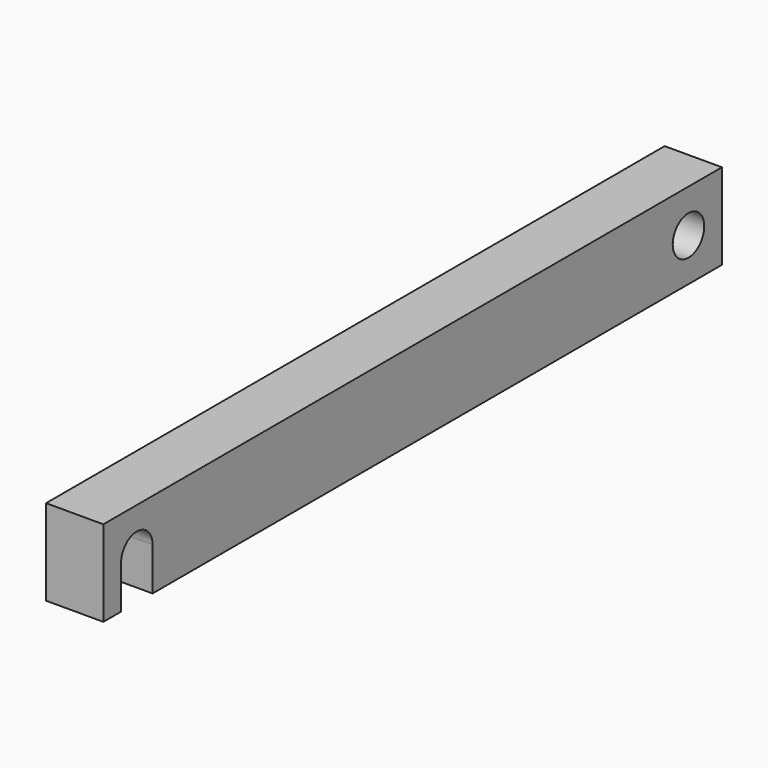
from build123d import *

# Parameters (mm, degrees)
F0_W          = 25.4
F0_H          = 38.1
F1_DEPTH      = 171.45
F1_DEPTH_BACK = 171.45
F3_D          = 17.4625
F5_DEPTH      = 25.4


with BuildPart() as f1:
    # F0 (on Front) → F1 (new body, two sides)
    with BuildSketch(Plane.XZ) as f1_sk:
        Rectangle(F0_W, F0_H)
    extrude(amount=F1_DEPTH)
    extrude(f1_sk.sketch, amount=-F1_DEPTH_BACK)

    # F3 (through all)
    with Locations(Plane.YZ.offset(12.7)):
        with Locations((152.908, 0)):
            Hole(F3_D / 2)

    # F4 (on face) → F5 (cut)
    with BuildSketch(Plane.YZ.offset(12.7)):
        with BuildLine():
            Line((-144.17675, -19.05), (-144.17675, 0))
            ThreePointArc((-144.17675, 0), (-152.908, 8.73125), (-161.63925, 0))
            Line((-161.63925, 0), (-161.63925, -19.05))
            Line((-161.63925, -19.05), (-144.17675, -19.05))
        make_face()
    extrude(amount=-F5_DEPTH, mode=Mode.SUBTRACT)


solid = f1.part
